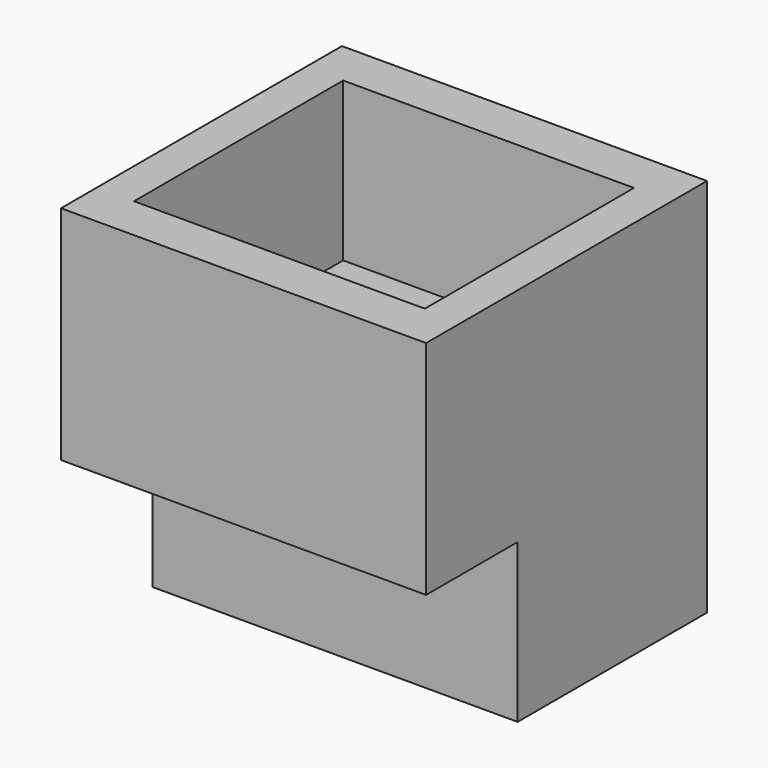
from build123d import *

# Parameters (mm, degrees)
F0_W     = 57.635396
F0_H     = 55.43743
F0_W_2   = 45.91294
F0_H_2   = 41.272804
F1_DEPTH = 25
F2_W     = 57.635396
F2_H     = 55.43743
F3_DEPTH = 10
F4_W     = 57.635396
F4_H     = 37.36532
F5_DEPTH = 25


with BuildPart() as f1:
    # F0 (on Top) → F1 (new body)
    with BuildSketch(Plane.XY):
        Rectangle(F0_W, F0_H)
        Rectangle(F0_W_2, F0_H_2, mode=Mode.SUBTRACT)
    extrude(amount=F1_DEPTH)

    # F2 (on face) → F3 (join)
    with BuildSketch(Plane(origin=(0, 0, 0), x_dir=(1, 0, 0), z_dir=(0, 0, -1))):
        Rectangle(F2_W, F2_H)
    extrude(amount=F3_DEPTH)

    # F4 (on face) → F5 (join)
    with BuildSketch(Plane(origin=(0, 0, -10), x_dir=(1, 0, 0), z_dir=(0, 0, -1))):
        with Locations((0, -9.036055)):
            Rectangle(F4_W, F4_H)
    extrude(amount=F5_DEPTH)


solid = f1.part
